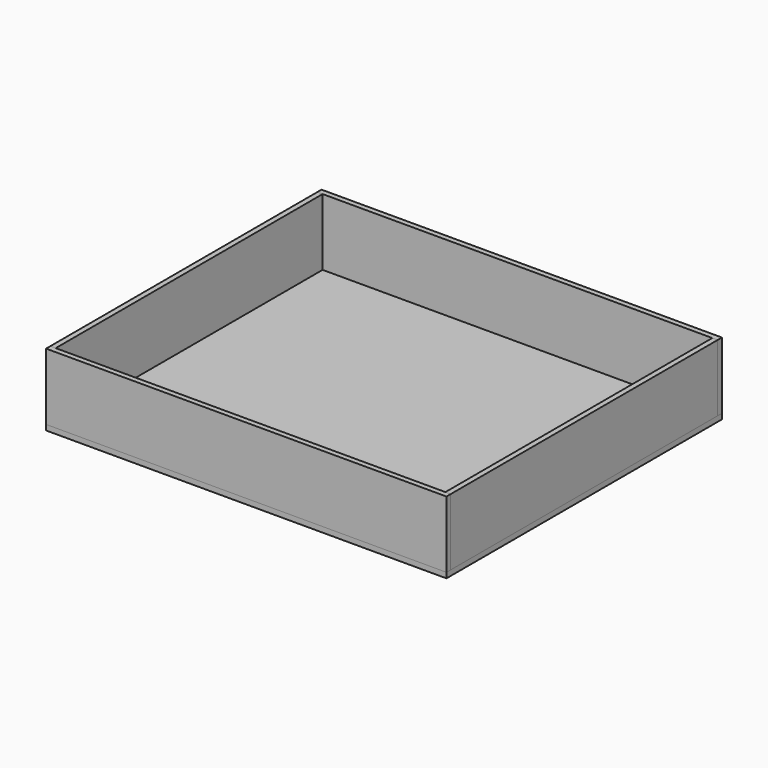
from build123d import *

# Parameters (mm, degrees)
F0_W     = 4
F0_H     = 250
F0_W_2   = 292
F1_DEPTH = 4
F2_DEPTH = 50
F3_DEPTH = 50
F4_DEPTH = 50
F5_DEPTH = 50


with BuildPart() as f1:
    # F0 (on Top) → F1 (new body)
    with BuildSketch(Plane.XY):
        Polygon((300, 258), (0, 258), (0, 254), (4, 254), (296, 254), (300, 254), align=None)
        with Locations((2, 129)):
            Rectangle(F0_W, F0_H)
        with Locations((298, 129)):
            Rectangle(F0_W, F0_H)
        Polygon((4, 4), (0, 4), (0, 0), (300, 0), (300, 4), (296, 4), align=None)
        with Locations((150, 129)):
            Rectangle(F0_W_2, F0_H)
    extrude(amount=-F1_DEPTH)


with BuildPart() as f2:
    # F0 (on Top) → F2 (new body)
    with BuildSketch(Plane.XY):
        Polygon((4, 4), (0, 4), (0, 0), (300, 0), (300, 4), (296, 4), align=None)
    extrude(amount=F2_DEPTH)


with BuildPart() as f3:
    # F0 (on Top) → F3 (new body)
    with BuildSketch(Plane.XY):
        with Locations((2, 129)):
            Rectangle(F0_W, F0_H)
    extrude(amount=F3_DEPTH)


with BuildPart() as f4:
    # F0 (on Top) → F4 (new body)
    with BuildSketch(Plane.XY):
        Polygon((300, 258), (0, 258), (0, 254), (4, 254), (296, 254), (300, 254), align=None)
    extrude(amount=F4_DEPTH)


with BuildPart() as f5:
    # F0 (on Top) → F5 (new body)
    with BuildSketch(Plane.XY):
        with Locations((298, 129)):
            Rectangle(F0_W, F0_H)
    extrude(amount=F5_DEPTH)


solid = Compound([f1.part, f2.part, f3.part, f4.part, f5.part])
